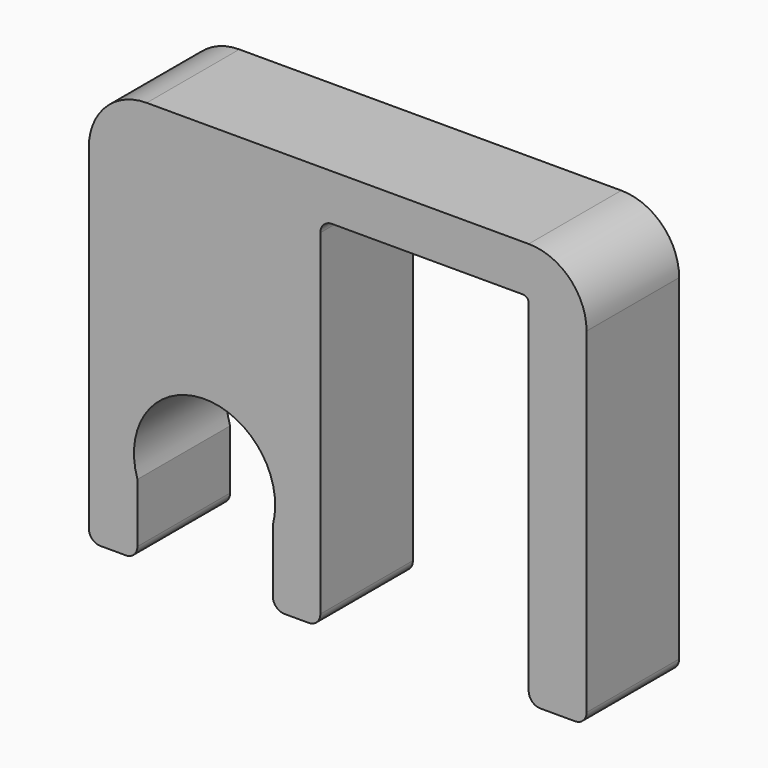
from build123d import *

# Parameters (mm, degrees)
CYLINDER_R     = 6.1
CYLINDER_DEPTH = 15
BOX007_W       = 11.7
BOX007_H       = 15
BOX007_DEPTH   = 15
BOX_W          = 18
BOX_H          = 20
BOX_DEPTH      = 31
BOX002_W       = 43
BOX002_H       = 10
BOX002_DEPTH   = 35
FILLET_R       = 5
FILLET001_R    = 1
FILLET002_R    = 0.5


with BuildPart() as cylinder:
    # Cylinder → Cylinder (new body)
    with BuildSketch(Plane(origin=(10, 12, 8), x_dir=(1, 0, 0), z_dir=(0, -1, 0))):
        Circle(CYLINDER_R)
    extrude(amount=CYLINDER_DEPTH)


with BuildPart() as cube007:
    # Box007 → Box007 (new body)
    with BuildSketch(Plane(origin=(4.2, -3, -7), x_dir=(1, 0, 0), z_dir=(0, 0, 1))):
        with Locations((5.85, 7.5)):
            Rectangle(BOX007_W, BOX007_H)
    extrude(amount=BOX007_DEPTH)


with BuildPart() as cube:
    # Box → Box (new body)
    with BuildSketch(Plane(origin=(20, 0, 0), x_dir=(1, 0, 0), z_dir=(0, 0, 1))):
        with Locations((9, 10)):
            Rectangle(BOX_W, BOX_H)
    extrude(amount=BOX_DEPTH)


with BuildPart() as fillet002:
    # Box002 → Box002 (new body)
    with BuildSketch(Plane.XY):
        with Locations((21.5, 5)):
            Rectangle(BOX002_W, BOX002_H)
    extrude(amount=BOX002_DEPTH)

    # Cut: cut Cube
    add(cube.part, mode=Mode.SUBTRACT)

    # Cut001: cut Cube007
    add(cube007.part, mode=Mode.SUBTRACT)

    # Cut002: cut Cylinder
    add(cylinder.part, mode=Mode.SUBTRACT)

    # Fillet
    fillet_edges = [fillet002.edges().sort_by_distance(p)[0] for p in [
        (0, 5, 35),
        (43, 5, 35),
    ]]
    fillet(fillet_edges, radius=FILLET_R)

    # Fillet001
    fillet001_edges = [fillet002.edges().sort_by_distance(p)[0] for p in [
        (0, 5, 0),
        (4.2, 5, 0),
        (43, 5, 0),
        (38, 5, 0),
        (20, 5, 31),
        (20, 5, 0),
        (15.9, 5, 0),
    ]]
    fillet(fillet001_edges, radius=FILLET001_R)

    # Fillet002
    fillet002_edges = [fillet002.edges().sort_by_distance(p)[0] for p in [
        (38, 5, 31),
    ]]
    fillet(fillet002_edges, radius=FILLET002_R)


solid = fillet002.part
